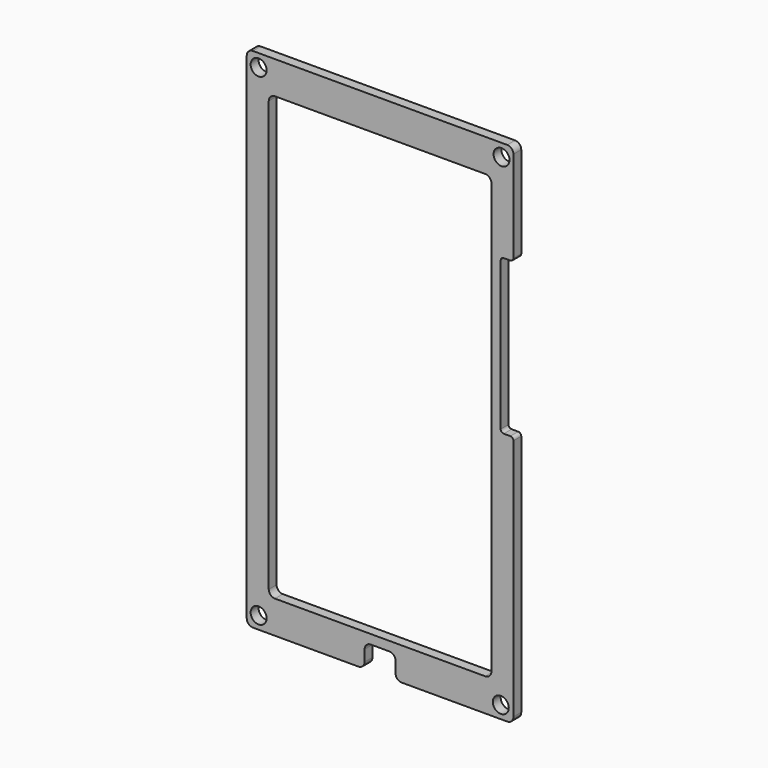
from build123d import *

# Parameters (mm, degrees)
F1_R     = 2.58
F2_DEPTH = 3.175


with BuildPart() as f2:
    # F1 (on Front) → F2 (new body)
    with BuildSketch(Plane.XZ):
        with BuildLine():
            ThreePointArc((43.11537, 80.08), (42.529583, 81.494214), (41.11537, 82.08))
            Line((41.11537, 82.08), (-41.11537, 82.08))
            ThreePointArc((-41.11537, 82.08), (-42.529583, 81.494214), (-43.11537, 80.08))
            Line((-43.11537, 80.08), (-43.11537, -80.08))
            ThreePointArc((-43.11537, -80.08), (-42.529583, -81.494214), (-41.11537, -82.08))
            Line((-41.11537, -82.08), (-7, -82.08))
            ThreePointArc((-7, -82.08), (-5.585786, -81.494214), (-5, -80.08))
            Line((-5, -80.08), (-5, -76.5))
            ThreePointArc((-5, -76.5), (-4.414214, -75.085786), (-3, -74.5))
            Line((-3, -74.5), (3, -74.5))
            ThreePointArc((3, -74.5), (4.414214, -75.085786), (5, -76.5))
            Line((5, -76.5), (5, -80.08))
            ThreePointArc((5, -80.08), (5.585786, -81.494214), (7, -82.08))
            Line((7, -82.08), (41.11537, -82.08))
            ThreePointArc((41.11537, -82.08), (42.529583, -81.494214), (43.11537, -80.08))
            Line((43.11537, -80.08), (43.11537, -1.5))
            ThreePointArc((43.11537, -1.5), (42.822476, -0.792893), (42.11537, -0.5))
            Line((42.11537, -0.5), (40.00037, -0.5))
            ThreePointArc((40.00037, -0.5), (39.293263, -0.207107), (39.00037, 0.5))
            Line((39.00037, 0.5), (39.00037, 48.5))
            ThreePointArc((39.00037, 48.5), (39.293263, 49.207107), (40.00037, 49.5))
            Line((40.00037, 49.5), (42.11537, 49.5))
            ThreePointArc((42.11537, 49.5), (42.822476, 49.792893), (43.11537, 50.5))
            Line((43.11537, 50.5), (43.11537, 80.08))
        make_face()
        with Locations((-39.272727, -78)):
            Circle(F1_R, mode=Mode.SUBTRACT)
        with Locations((39.03537, -78)):
            Circle(F1_R, mode=Mode.SUBTRACT)
        with BuildLine():
            Line((-34, 71.5), (34, 71.5))
            ThreePointArc((34, 71.5), (35.414214, 70.914214), (36, 69.5))
            Line((36, 69.5), (36, -69.5))
            ThreePointArc((36, -69.5), (35.414214, -70.914214), (34, -71.5))
            Line((34, -71.5), (-34, -71.5))
            ThreePointArc((-34, -71.5), (-35.414214, -70.914214), (-36, -69.5))
            Line((-36, -69.5), (-36, 69.5))
            ThreePointArc((-36, 69.5), (-35.414214, 70.914214), (-34, 71.5))
        make_face(mode=Mode.SUBTRACT)
        with Locations((-39.272727, 78)):
            Circle(F1_R, mode=Mode.SUBTRACT)
        with Locations((39.272727, 78)):
            Circle(F1_R, mode=Mode.SUBTRACT)
    extrude(amount=F2_DEPTH)


solid = f2.part
